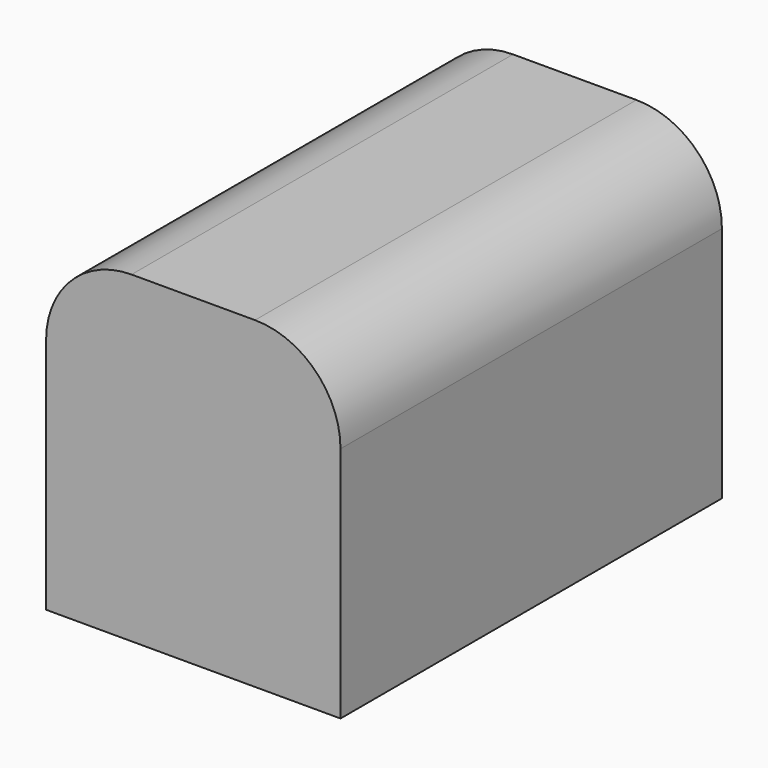
from build123d import *

# Parameters (mm, degrees)
F1_DEPTH = 2510


with BuildPart() as f1:
    # F0 (on Front) → F1 (new body)
    with BuildSketch(Plane.XZ):
        with BuildLine():
            Line((-775, 1250), (-775, 0))
            Line((-775, 0), (775, 0))
            Line((775, 0), (775, 1250))
            ThreePointArc((775, 1250), (643.198052, 1568.198052), (325, 1700))
            Line((325, 1700), (-325, 1700))
            ThreePointArc((-325, 1700), (-643.198052, 1568.198052), (-775, 1250))
        make_face()
    extrude(amount=F1_DEPTH)


solid = f1.part
